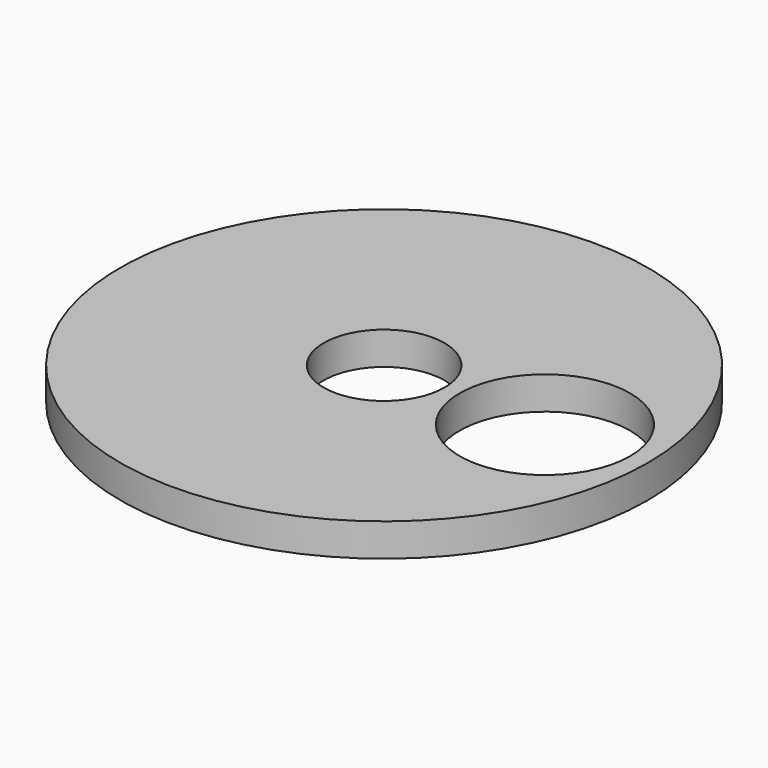
from build123d import *

# Parameters (mm, degrees)
F0_R     = 203.817225
F0_R_2   = 46.631631
F0_R_3   = 65.789553
F1_DEPTH = 25.4


with BuildPart() as f1:
    # F0 (on Top) → F1 (new body)
    with BuildSketch(Plane.XY):
        Circle(F0_R)
        Circle(F0_R_2, mode=Mode.SUBTRACT)
        with Locations((124.169424, 0)):
            Circle(F0_R_3, mode=Mode.SUBTRACT)
    extrude(amount=F1_DEPTH)


solid = f1.part
